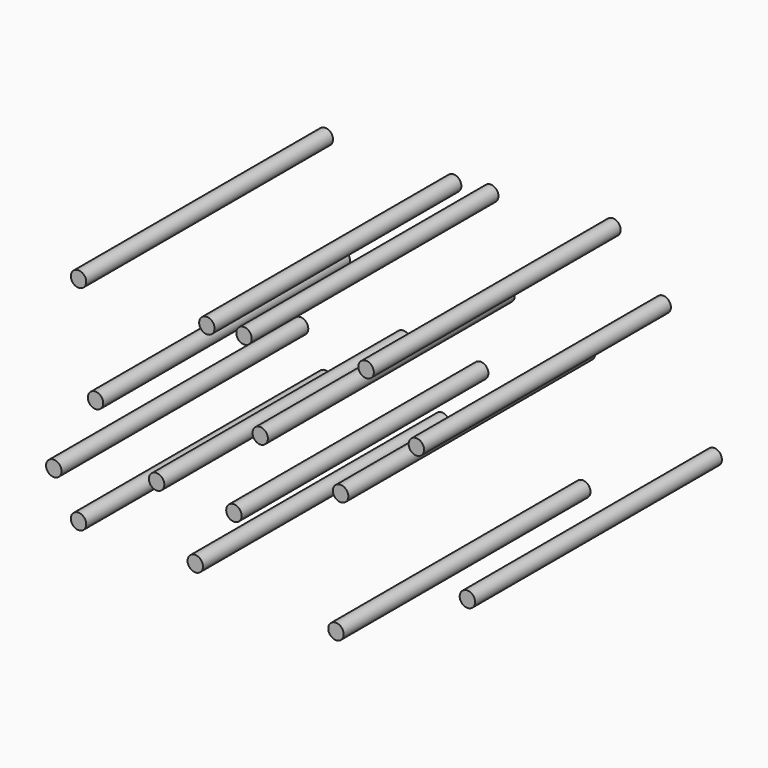
from build123d import *

# Parameters (mm, degrees)
F0_R     = 1.905
F1_DEPTH = 76.2


with BuildPart() as f1:
    # F0 (on Front) → F1 (new body)
    with BuildSketch(Plane.XZ):
        with Locations((-17.472351, 9.834165)):
            Circle(F0_R)
        with Locations((-10.979893, 28.738678)):
            Circle(F0_R)
        with Locations((-14.98994, 49.170822)):
            Circle(F0_R)
        with Locations((-24.155764, 48.407007)):
            Circle(F0_R)
        with Locations((-55.854239, 48.216052)):
            Circle(F0_R)
        with Locations((-51.653236, 23.200989)):
            Circle(F0_R)
        with Locations((-61.964784, 5.060298)):
            Circle(F0_R)
        with Locations((-55.854239, -4.487434)):
            Circle(F0_R)
        with Locations((-36.567815, 10.407029)):
            Circle(F0_R)
        with Locations((-27.020084, -4.29648)):
            Circle(F0_R)
        with Locations((7.733663, -7.733664)):
            Circle(F0_R)
        with Locations((8.879391, 22.628127)):
            Circle(F0_R)
        with Locations((15.180895, 51.653232)):
            Circle(F0_R)
        with Locations((27.592946, 38.859274)):
            Circle(F0_R)
        with Locations((40.195953, 9.834165)):
            Circle(F0_R)
    extrude(amount=F1_DEPTH)


solid = f1.part
